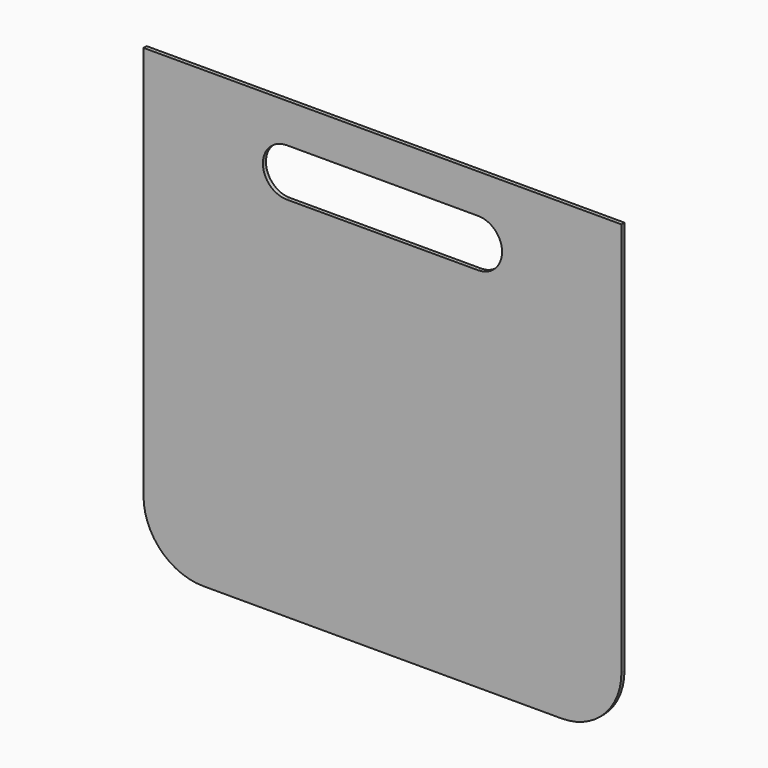
from build123d import *

# Parameters (mm, degrees)
F1_DEPTH = 0.8


with BuildPart() as f1:
    # F0 (on Front) → F1 (new body, symmetric)
    with BuildSketch(Plane.XZ):
        with BuildLine():
            ThreePointArc((-99.9, -70), (-92.57767, -87.67767), (-74.9, -95))
            Line((-74.9, -95), (74.9, -95))
            ThreePointArc((74.9, -95), (92.57767, -87.67767), (99.9, -70))
            Line((99.9, -70), (99.9, 95))
            Line((99.9, 95), (-99.9, 95))
            Line((-99.9, 95), (-99.9, -70))
        make_face()
        with BuildLine():
            ThreePointArc((40, 78.637437), (50, 68.637437), (40, 58.637437))
            Line((40, 58.637437), (0, 58.637437))
            Line((0, 58.637437), (-40, 58.637437))
            ThreePointArc((-40, 58.637437), (-50, 68.637437), (-40, 78.637437))
            Line((-40, 78.637437), (0, 78.637437))
            Line((0, 78.637437), (40, 78.637437))
        make_face(mode=Mode.SUBTRACT)
    extrude(amount=F1_DEPTH, both=True)


solid = f1.part
